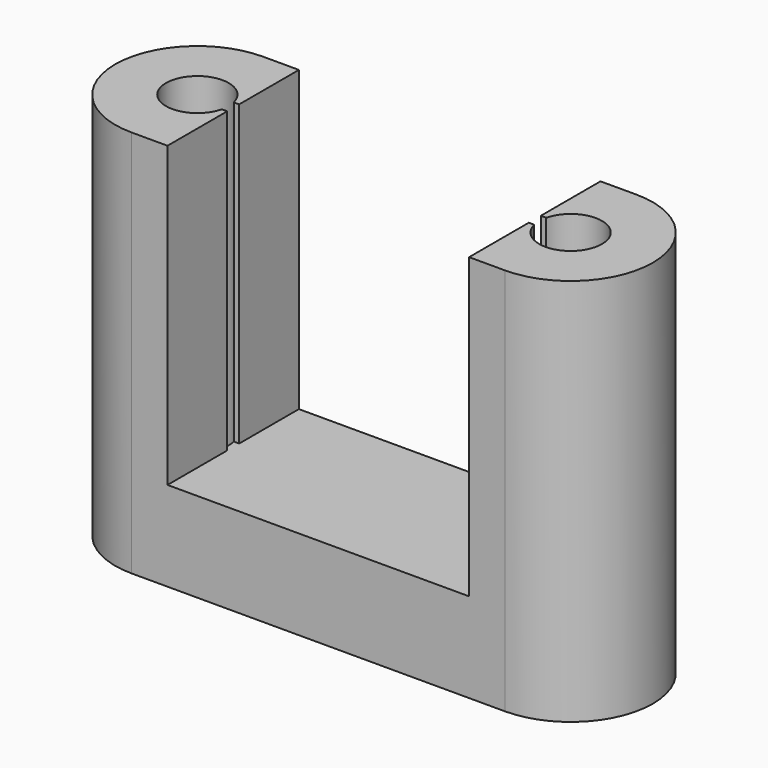
from build123d import *

# Parameters (mm, degrees)
F0_R     = 2.1
F1_DEPTH = 26
F3_DEPTH = 20


with BuildPart() as f1:
    # F0 (on Top) → F1 (new body)
    with BuildSketch(Plane.XY):
        with BuildLine():
            ThreePointArc((-12.5, 5.5), (-18, 0), (-12.5, -5.5))
            Line((-12.5, -5.5), (12.5, -5.5))
            ThreePointArc((12.5, -5.5), (18, 0), (12.5, 5.5))
            Line((12.5, 5.5), (-12.5, 5.5))
        make_face()
        with Locations((-12.5, 0)):
            Circle(F0_R, mode=Mode.SUBTRACT)
        with Locations((12.5, 0)):
            Circle(F0_R, mode=Mode.SUBTRACT)
    extrude(amount=F1_DEPTH)

    # F2 (on face) → F3 (cut)
    with BuildSketch(Plane.XY.offset(26)):
        Polygon((10.1, 5.5), (-10.1, 5.5), (-10.1, 0.5), (-10.460392, 0.5), (-10.460392, -0.5), (-10.1, -0.5), (-10.1, -5.5), (10.1, -5.5), (10.1, -0.5), (10.460392, -0.5), (10.460392, 0.5), (10.1, 0.5), align=None)
    extrude(amount=-F3_DEPTH, mode=Mode.SUBTRACT)


solid = f1.part
